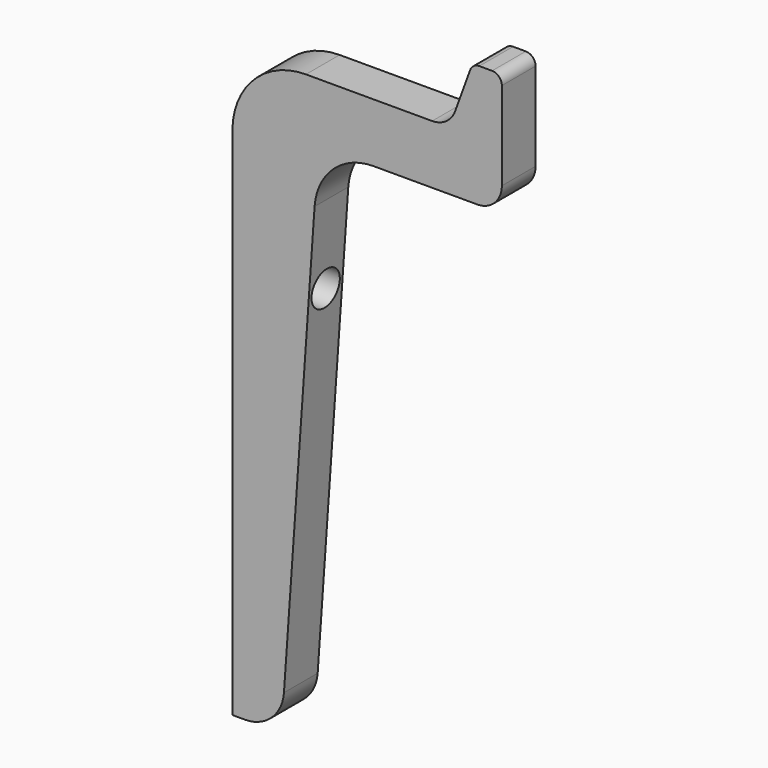
from build123d import *

# Parameters (mm, degrees)
F1_DEPTH  = 8.6
F2_R      = 12
F3_R      = 8
F4_R      = 15
F5_R      = 5
F6_R      = 5
F7_R      = 2
F8_R      = 2
F9_DEPTH  = 25
F11_START = -6
F10_R     = 3.6
F11_DEPTH = 19


with BuildPart() as f1:
    # F0 (on Front) → F1 (new body)
    with BuildSketch(Plane.XZ):
        Polygon((0, 120), (0, 0), (10, 0), (17.5520956899, 108), (55, 108), (55, 133), (49, 133), (44.2683869545, 120), align=None)
    extrude(amount=F1_DEPTH)

    # F2
    f2_edges = [f1.edges().sort_by_distance(p)[0] for p in [
        (17.552096, -4.3, 108),
    ]]
    fillet(f2_edges, radius=F2_R)

    # F3
    f3_edges = [f1.edges().sort_by_distance(p)[0] for p in [
        (10, -4.3, 0),
    ]]
    fillet(f3_edges, radius=F3_R)

    # F4
    f4_edges = [f1.edges().sort_by_distance(p)[0] for p in [
        (0, -4.3, 120),
    ]]
    fillet(f4_edges, radius=F4_R)

    # F5
    f5_edges = [f1.edges().sort_by_distance(p)[0] for p in [
        (55, -4.3, 108),
    ]]
    fillet(f5_edges, radius=F5_R)

    # F6
    f6_edges = [f1.edges().sort_by_distance(p)[0] for p in [
        (44.268387, -4.3, 120),
    ]]
    fillet(f6_edges, radius=F6_R)

    # F7
    f7_edges = [f1.edges().sort_by_distance(p)[0] for p in [
        (49, -4.3, 133),
        (55, -4.3, 133),
    ]]
    fillet(f7_edges, radius=F7_R)

    # F8 (on face) → F9 (cut)
    with BuildSketch(Plane(origin=(0, 0, 0), x_dir=(0, -1, 0), z_dir=(-1, 0, 0))):
        with Locations((4.3, 80)):
            Circle(F8_R)
    extrude(amount=-F9_DEPTH, mode=Mode.SUBTRACT)

    # F10 (on face) → F11 (cut)
    with BuildSketch(Plane(origin=(0, 0, 0), x_dir=(0, -1, 0), z_dir=(-1, 0, 0)).offset(F11_START)):
        with Locations((4.3, 80)):
            Circle(F10_R)
    extrude(amount=-F11_DEPTH, mode=Mode.SUBTRACT)


solid = f1.part
